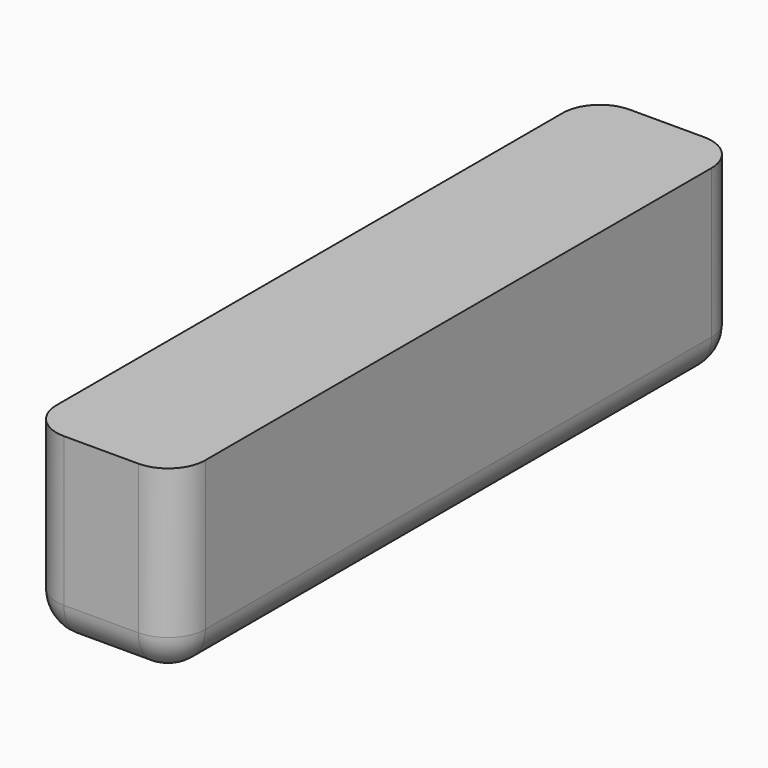
from build123d import *

# Parameters (mm, degrees)
CYLINDER047_R          = 0.75
CYLINDER047_DEPTH      = 10
CYLINDER046_R          = 0.75
CYLINDER046_DEPTH      = 10
BOX034_W               = 4
BOX034_H               = 19
BOX034_DEPTH           = 5
FILLET008_R            = 1
FILLET009_R            = 1
FILLET010_R            = 1
FILLET011_R            = 1
CUT066_PLACEMENT_ANGLE = 180


with BuildPart() as cilindro047:
    # Cylinder047 → Cylinder047 (new body)
    with BuildSketch(Plane(origin=(-39, 66, 48), x_dir=(1, 0, 0), z_dir=(0, 0, 1))):
        Circle(CYLINDER047_R)
    extrude(amount=CYLINDER047_DEPTH)


with BuildPart() as cilindro046:
    # Cylinder046 → Cylinder046 (new body)
    with BuildSketch(Plane(origin=(-39, 53, 48), x_dir=(1, 0, 0), z_dir=(0, 0, 1))):
        Circle(CYLINDER046_R)
    extrude(amount=CYLINDER046_DEPTH)


with BuildPart() as cut066:
    # Box034 → Box034 (new body)
    with BuildSketch(Plane(origin=(-2, 50, 45), x_dir=(1, 0, 0), z_dir=(0, 0, 1))):
        with Locations((2, 9.5)):
            Rectangle(BOX034_W, BOX034_H)
    extrude(amount=BOX034_DEPTH)

    # Fillet008
    fillet008_edges = [cut066.edges().sort_by_distance(p)[0] for p in [
        (2, 59.5, 50),
    ]]
    fillet(fillet008_edges, radius=FILLET008_R)

    # Fillet009
    fillet009_edges = [cut066.edges().sort_by_distance(p)[0] for p in [
        (-2, 59.5, 50),
    ]]
    fillet(fillet009_edges, radius=FILLET009_R)

    # Fillet010
    fillet010_edges = [cut066.edges().sort_by_distance(p)[0] for p in [
        (0, 69, 50),
    ]]
    fillet(fillet010_edges, radius=FILLET010_R)

    # Fillet011
    fillet011_edges = [cut066.edges().sort_by_distance(p)[0] for p in [
        (0, 50, 50),
    ]]
    fillet(fillet011_edges, radius=FILLET011_R)


with BuildPart() as cut066_1:
    # Fillet011 placement: moved
    add(cut066.part.moved(Location((-39, 0, 0))))

    # Cut065: cut Cilindro046
    add(cilindro046.part, mode=Mode.SUBTRACT)

    # Cut066: cut Cilindro047
    add(cilindro047.part, mode=Mode.SUBTRACT)


with BuildPart() as cut066_2:
    # Cut066 placement: moved
    add(cut066_1.part.moved(Location((-49, -71, 35))).rotate(Axis((-49, -71, 35), (0, 1, 0)), CUT066_PLACEMENT_ANGLE))


solid = cut066_2.part
